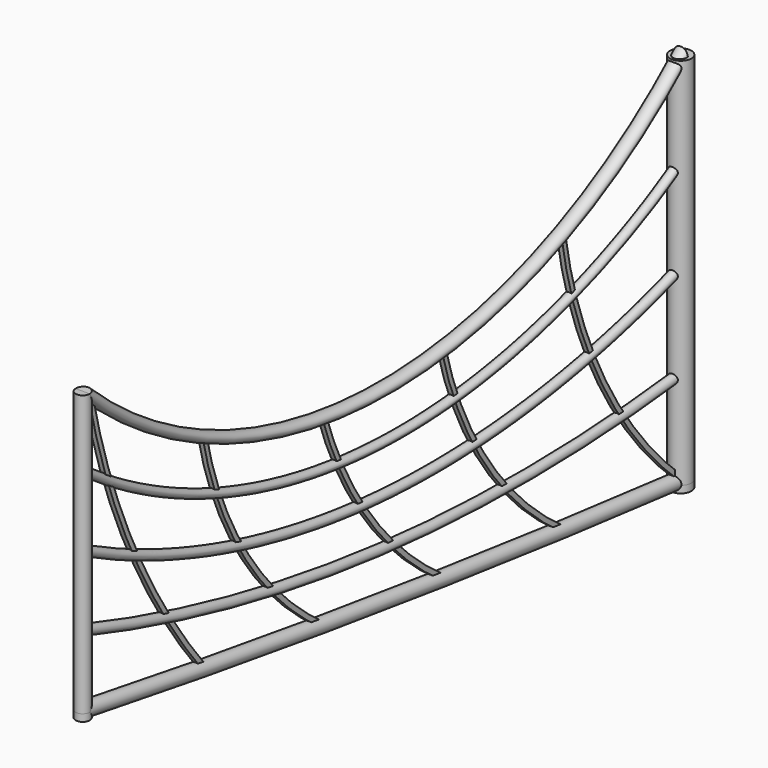
from build123d import *

# Parameters (mm, degrees)
F1_R      = 38
F1_R_2    = 25.5
F7_R      = 57
F8_DEPTH  = 2000
F10_R     = 38
F11_DEPTH = 1500
F12_DEPTH = 38
F13_DEPTH = 38
F15_DEPTH = 12.7


with BuildPart() as f2:
    # F2: sweep along a path in F0
    with BuildLine(Plane.YZ) as f2_path:
        ThreePointArc((-4000.0000000001, 539.9999999992), (-2004.4537270487, 237.0094292688), (0, -8e-10))
    # F1 (on Front) → F2 (sweep)
    with BuildSketch(Plane.XZ):
        Circle(F1_R)
    sweep(path=f2_path.line)


with BuildPart() as f3:
    # F3: sweep along a path in F0
    with BuildLine(Plane.YZ) as f3_path:
        ThreePointArc((-4000, 915), (-2022.6968678008, 488.7350091485), (0, 500))
    # F1 (on Front) → F3 (sweep)
    with BuildSketch(Plane.XZ):
        with Locations((0, 500)):
            Circle(F1_R_2)
    sweep(path=f3_path.line)


with BuildPart() as f4:
    # F4: sweep along a path in F0
    with BuildLine(Plane.YZ) as f4_path:
        ThreePointArc((-4000, 1290), (-2029.4741486898, 738.4600180717), (0, 1000))
    # F1 (on Front) → F4 (sweep)
    with BuildSketch(Plane.XZ):
        with Locations((0, 1000)):
            Circle(F1_R_2)
    sweep(path=f4_path.line)


with BuildPart() as f5:
    # F5: sweep along a path in F0
    with BuildLine(Plane.YZ) as f5_path:
        ThreePointArc((-4000, 1665), (-2024.5504100221, 987.3385449181), (0, 1500))
    # F1 (on Front) → F5 (sweep)
    with BuildSketch(Plane.XZ):
        with Locations((0, 1500)):
            Circle(F1_R_2)
    sweep(path=f5_path.line)


with BuildPart() as f6:
    # F6: sweep along a path in F0
    with BuildLine(Plane.YZ) as f6_path:
        ThreePointArc((-4000, 2040), (-2007.8352373103, 1236.4762689678), (0, 2000))
    # F1 (on Front) → F6 (sweep)
    with BuildSketch(Plane.XZ):
        with Locations((0, 2000)):
            Circle(F1_R)
    sweep(path=f6_path.line)


with BuildPart() as f8:
    # F7 (on Top) → F8 (new body)
    with BuildSketch(Plane.XY):
        Circle(F7_R)
    extrude(amount=F8_DEPTH)


with BuildPart() as f11:
    # F10 (on offset) → F11 (new body)
    with BuildSketch(Plane.XY.offset(540)):
        with Locations((0, -4000)):
            Circle(F10_R)
    extrude(amount=F11_DEPTH)


with BuildPart() as f12:
    # F12 (new): a face of the model
    f12_faces = [f11.part.faces().sort_by_distance(p)[0] for p in [
        (0, -4000, 540),
    ]]
    extrude(f12_faces, amount=F12_DEPTH)


with BuildPart() as f13:
    # F13 (new): a face of the model
    f13_faces = [f8.part.faces().sort_by_distance(p)[0] for p in [
        (0, 0, 0),
    ]]
    extrude(f13_faces, amount=F13_DEPTH)


with BuildPart() as f15:
    # F14 (on Right) → F15 (new body, symmetric)
    with BuildSketch(Plane.YZ):
        with BuildLine():
            Line((-18.8991533613, 0), (0, 0))
            ThreePointArc((0, 0), (-526.1903278954, 668.2179267157), (-800, 1473.4630584717))
            Line((-800, 1473.4630584717), (-812.5415482615, 1471.4631666737))
            ThreePointArc((-812.5415482615, 1471.4631666737), (-540.690324941, 668.3282858537), (-18.8991533613, 0))
        make_face()
        with BuildLine():
            ThreePointArc((-800, 1473.4630584717), (-526.1903278954, 668.2179267157), (0, 0))
            Line((0, 0), (0, 17.1415668308))
            ThreePointArc((0, 17.1415668308), (-517.7631945886, 679.3269003885), (-787.4584517385, 1475.4629502697))
            Line((-787.4584517385, 1475.4629502697), (-800, 1473.4630584717))
        make_face()
    extrude(amount=F15_DEPTH, both=True)


with BuildPart() as f15b:
    # F14 (on Right) → F15, piece 2 (new body, symmetric)
    with BuildSketch(Plane.YZ):
        with BuildLine():
            Line((-1587.6768199124, 1264.9455005026), (-1600, 1261.87479496))
            ThreePointArc((-1600, 1261.87479496), (-1305.1479245267, 605.6172279512), (-800, 93.3308675885))
            Line((-800, 93.3308675885), (-792.6793076065, 103.708606402))
            ThreePointArc((-792.6793076065, 103.708606402), (-1294.6684867881, 612.7915839976), (-1587.6768199124, 1264.9455005026))
        make_face()
        with BuildLine():
            ThreePointArc((-800, 93.3308675885), (-1305.1479245267, 605.6172279512), (-1600, 1261.87479496))
            Line((-1600, 1261.87479496), (-1612.3231800876, 1258.8040894175))
            ThreePointArc((-1612.3231800876, 1258.8040894175), (-1315.6273622654, 598.4428719047), (-807.3206923935, 82.9531287751))
            Line((-807.3206923935, 82.9531287751), (-800, 93.3308675885))
        make_face()
    extrude(amount=F15_DEPTH, both=True)


with BuildPart() as f15c:
    # F14 (on Right) → F15, piece 3 (new body, symmetric)
    with BuildSketch(Plane.YZ):
        with BuildLine():
            Line((-2387.9144063981, 1275.3948429896), (-2400, 1271.4924812317))
            ThreePointArc((-2400, 1271.4924812317), (-2088.5114451536, 665.0561668892), (-1600, 189.5073354244))
            Line((-1600, 189.5073354244), (-1592.7268673664, 199.9184612855))
            ThreePointArc((-1592.7268673664, 199.9184612855), (-2078.299634692, 672.6065925128), (-2387.9144063981, 1275.3948429896))
        make_face()
        with BuildLine():
            ThreePointArc((-1600, 189.5073354244), (-2088.5114451536, 665.0561668892), (-2400, 1271.4924812317))
            Line((-2400, 1271.4924812317), (-2412.0855936019, 1267.5901194738))
            ThreePointArc((-2412.0855936019, 1267.5901194738), (-2098.7232556151, 657.5057412656), (-1607.2731326336, 179.0962095634))
            Line((-1607.2731326336, 179.0962095634), (-1600, 189.5073354244))
        make_face()
    extrude(amount=F15_DEPTH, both=True)


with BuildPart() as f15d:
    # F14 (on Right) → F15, piece 4 (new body, symmetric)
    with BuildSketch(Plane.YZ):
        with BuildLine():
            Line((-3187.5733072045, 1504.9365526305), (-3200, 1502.3159980774))
            ThreePointArc((-3200, 1502.3159980774), (-2915.1628268654, 820.378164457), (-2400, 290.4926240444))
            Line((-2400, 290.4926240444), (-2392.707310706, 300.8900604045))
            ThreePointArc((-2392.707310706, 300.8900604045), (-2904.5640778752, 827.3750580422), (-3187.5733072045, 1504.9365526305))
        make_face()
        with BuildLine():
            ThreePointArc((-2400, 290.4926240444), (-2915.1628268654, 820.378164457), (-3200, 1502.3159980774))
            Line((-3200, 1502.3159980774), (-3212.4266927955, 1499.6954435242))
            ThreePointArc((-3212.4266927955, 1499.6954435242), (-2925.7615758556, 813.3812708718), (-2407.292689294, 280.0951876844))
            Line((-2407.292689294, 280.0951876844), (-2400, 290.4926240444))
        make_face()
    extrude(amount=F15_DEPTH, both=True)


with BuildPart() as f15e:
    # F14 (on Right) → F15, piece 5 (new body, symmetric)
    with BuildSketch(Plane.YZ):
        with BuildLine():
            ThreePointArc((-3200, 415.521979332), (-3673.8335853683, 1162.9780700541), (-3961.2412452698, 2000))
            Line((-3961.2412452698, 2000), (-3973.6525285603, 1997.3074088536))
            ThreePointArc((-3973.6525285603, 1997.3074088536), (-3685.2809776648, 1157.4783237318), (-3209.8582769412, 407.5154585051))
            Line((-3209.8582769412, 407.5154585051), (-3200, 415.521979332))
        make_face()
        with BuildLine():
            ThreePointArc((-3190.1417230588, 423.5285001589), (-3661.7893422817, 1167.2360879179), (-3948.2447830445, 2000))
            Line((-3948.2447830445, 2000), (-3961.2412452698, 2000))
            ThreePointArc((-3961.2412452698, 2000), (-3673.8335853683, 1162.9780700541), (-3200, 415.521979332))
            Line((-3200, 415.521979332), (-3190.1417230588, 423.5285001589))
        make_face()
    extrude(amount=F15_DEPTH, both=True)


solid = Compound([f2.part, f3.part, f4.part, f5.part, f6.part, f8.part, f11.part, f12.part, f13.part, f15.part, f15b.part, f15c.part, f15d.part, f15e.part])
